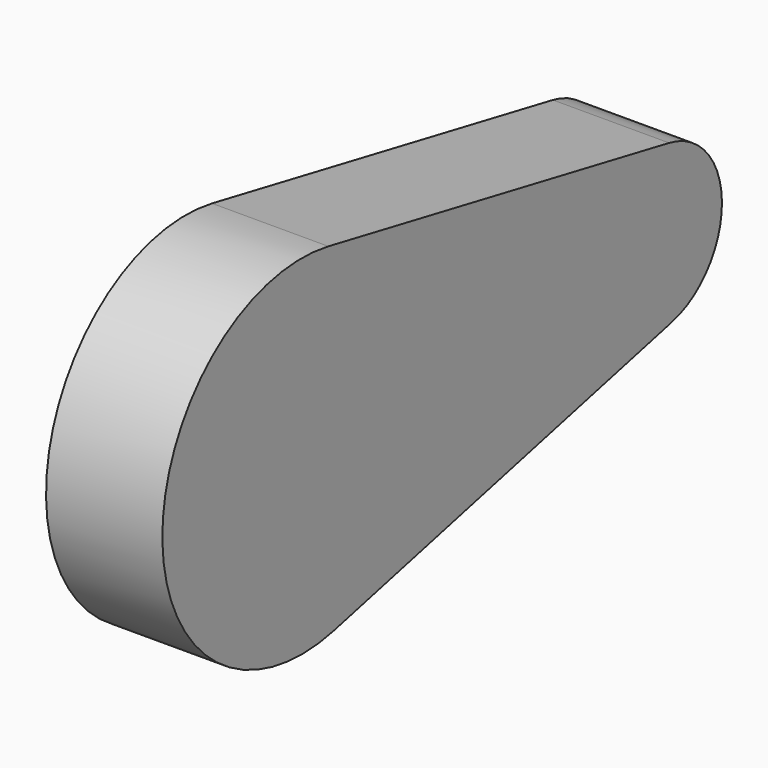
from build123d import *

# Parameters (mm, degrees)
F1_DEPTH = 25


with BuildPart() as f1:
    # F0 (on Right) → F1 (new body)
    with BuildSketch(Plane.YZ):
        with BuildLine():
            Line((109.632522, 19.166691), (18.055698, 36.821933))
            ThreePointArc((18.055698, 36.821933), (-26.535155, -0.779664), (19.580362, -36.494974))
            Line((19.580362, -36.494974), (110.344032, -15.047865))
            ThreePointArc((110.344032, -15.047865), (123.815892, 2.346966), (109.632522, 19.166691))
        make_face()
    extrude(amount=F1_DEPTH)


solid = f1.part
